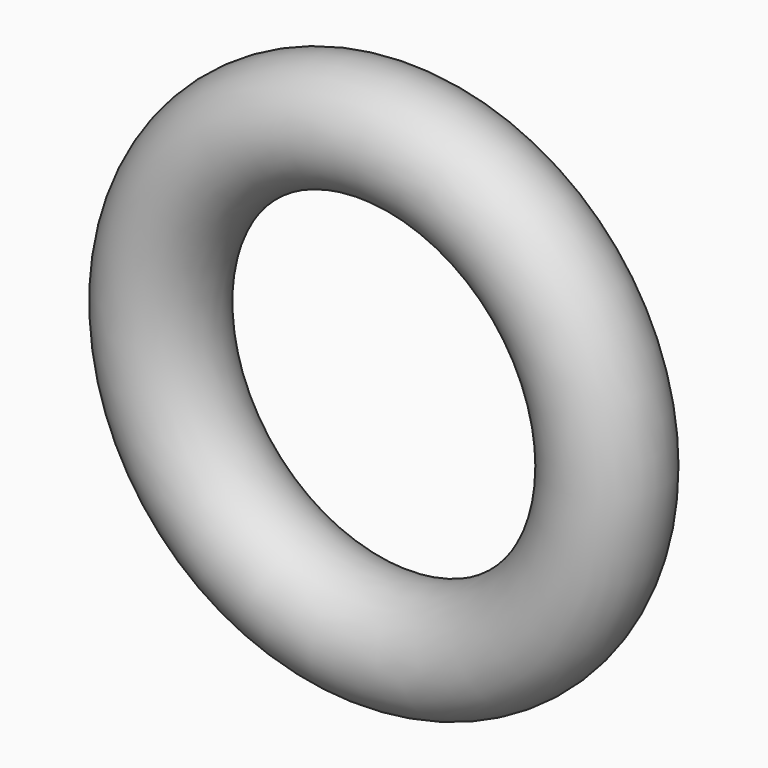
from build123d import *

# Parameters (mm, degrees)
F0_R     = 10
F3_SCALE = 0.3


with BuildPart() as f2:
    # F2: sweep along a path in F1
    with BuildLine(Plane.XZ) as f2_path:
        CenterArc((0, 0), 29.886366576, 0, 360)
    # F0 (on Right) → F2 (sweep)
    with BuildSketch(Plane.YZ):
        with Locations((0, 39.886366576)):
            Circle(F0_R)
    sweep(path=f2_path.line)


with BuildPart() as f2_1:
    # F3: moved
    add(f2.part.scale(F3_SCALE))


solid = f2_1.part
